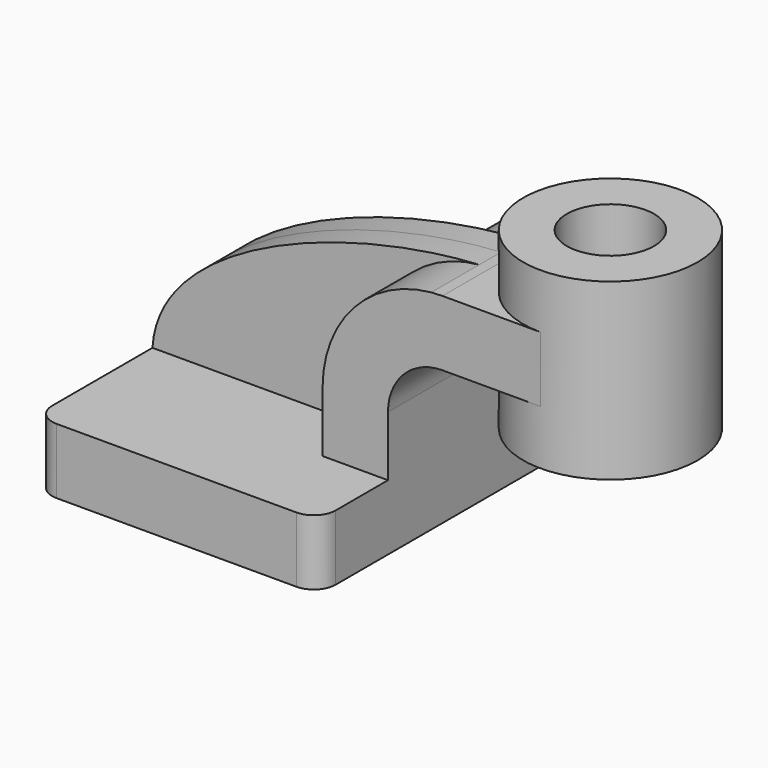
from build123d import *

# Parameters (mm, degrees)
F1_DEPTH = 50.8
F0_W     = 25.4
F0_H     = 19.05
F2_DEPTH = 25.4
F3_DEPTH = 7.9375
F5_R     = 6.35
F6_R     = 12.7
F7_DEPTH = 50.8


with BuildPart() as f1:
    # F0 (on Front) → F1 (new body, symmetric)
    with BuildSketch(Plane.XZ):
        Polygon((22.225, 9.525), (-41.275, 9.525), (-41.275, -9.525), (41.275, -9.525), (41.275, 9.525), align=None)
    extrude(amount=F1_DEPTH, both=True)

    # F0 (on Front) → F2 (join, symmetric)
    with BuildSketch(Plane.XZ):
        with BuildLine():
            Line((22.225, 27.0002), (22.225, 9.525))
            Line((22.225, 9.525), (41.275, 9.525))
            Line((41.275, 9.525), (41.275, 27.0002))
            ThreePointArc((41.275, 27.0002), (45.9246798487, 38.2255201513), (57.15, 42.8752))
            Line((57.15, 42.8752), (60.325, 42.8752))
            Line((60.325, 42.8752), (60.325, 61.9252))
            Line((60.325, 61.9252), (57.15, 61.9252))
            add(Edge.make_bspline(
                [(53.8854342407, 61.7722898912), (54.9842067368, 61.8365871986), (56.0728453275, 61.8876096574), (57.15, 61.9252)],
                knots=[108.5245810491, 108.5245810491, 108.5245810491, 108.5245810491, 111.5045361635, 111.5045361635, 111.5045361635, 111.5045361635], degree=3))
            ThreePointArc((53.8854342407, 61.7722898912), (31.3258777096, 50.5133948686), (22.225, 27.0002))
        make_face()
        with Locations((73.025, 52.4002)):
            Rectangle(F0_W, F0_H)
    extrude(amount=F2_DEPTH, both=True)

    # F0 (on Front) → F3 (join, symmetric)
    with BuildSketch(Plane.XZ):
        with BuildLine():
            add(Edge.make_bspline(
                [(-41.275, 9.525), (-39.5856284224, 39.4828766469), (13.870125209, 59.4306981306), (53.8854342407, 61.7722898912)],
                knots=[0, 0, 0, 0, 108.5245810491, 108.5245810491, 108.5245810491, 108.5245810491], degree=3))
            Line((-41.275, 9.525), (22.225, 9.525))
            Line((22.225, 9.525), (22.225, 27.0002))
            ThreePointArc((22.225, 27.0002), (31.3258777096, 50.5133948686), (53.8854342407, 61.7722898912))
        make_face()
    extrude(amount=F3_DEPTH, both=True)

    # F0 (on Front) → F4 (revolve)
    with BuildSketch(Plane.XZ):
        Polygon((85.725, 77.8002), (85.725, 61.9252), (85.725, 42.8752), (85.725, 27.0002), (111.125, 27.0002), (111.125, 77.8002), align=None)
    revolve(axis=Axis((85.725, 0, 52.4002), (0, 0, 1)))

    # F5
    f5_edges = [f1.edges().sort_by_distance(p)[0] for p in [
        (41.275, -50.8, 0),
        (-41.275, -50.8, 0),
        (41.275, 50.8, 0),
        (-41.275, 50.8, 0),
    ]]
    fillet(f5_edges, radius=F5_R)

    # F6 (on face) → F7 (cut, through all)
    with BuildSketch(Plane.XY.offset(77.8002)):
        with Locations((85.725, 0)):
            Circle(F6_R)
    extrude(amount=-F7_DEPTH, mode=Mode.SUBTRACT)


solid = f1.part
